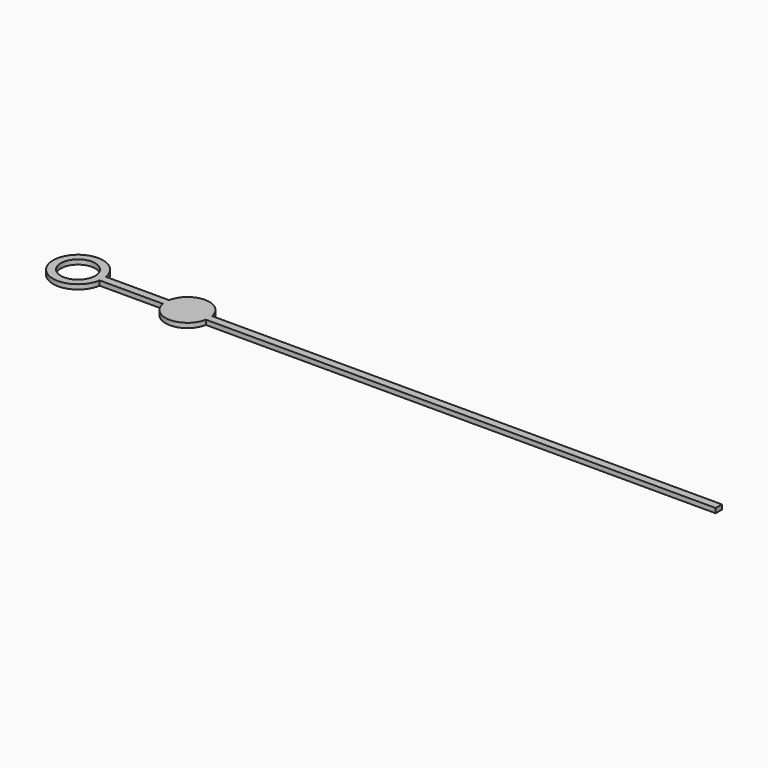
from build123d import *

# Parameters (mm, degrees)
F0_R     = 0.55
F1_DEPTH = 0.15


with BuildPart() as f1:
    # F0 (on Top) → F1 (new body)
    with BuildSketch(Plane.XY):
        with BuildLine():
            Line((-2.709826, -0.125), (-0.688749, -0.125))
            ThreePointArc((-0.688749, -0.125), (0, -0.7), (0.688749, -0.125))
            Line((0.688749, -0.125), (17, -0.125))
            Line((17, -0.125), (17, 0.125))
            Line((17, 0.125), (0.688749, 0.125))
            ThreePointArc((0.688749, 0.125), (0, 0.7), (-0.688749, 0.125))
            Line((-0.688749, 0.125), (-2.709826, 0.125))
            ThreePointArc((-2.709826, 0.125), (-4.3, 0), (-2.709826, -0.125))
        make_face()
        with Locations((-3.5, 0)):
            Circle(F0_R, mode=Mode.SUBTRACT)
    extrude(amount=F1_DEPTH)


solid = f1.part
